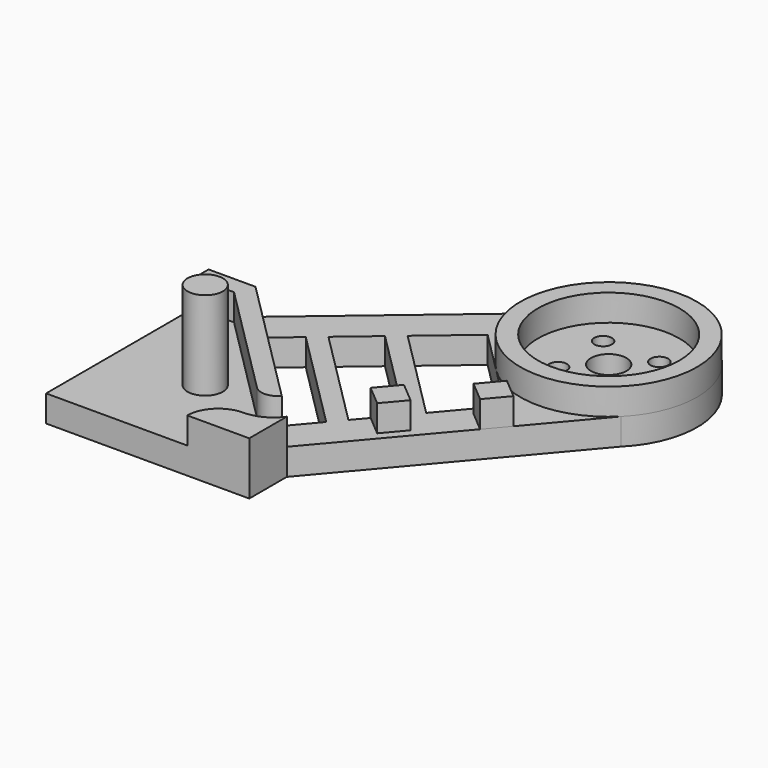
from build123d import *

# Parameters (mm, degrees)
PAD_DEPTH       = 3
SKETCH001_R     = 2
SKETCH001_R_2   = 1
POCKET_DEPTH    = 3
POCKET001_DEPTH = 3
SKETCH003_R     = 10
SKETCH003_R_2   = 8
PAD001_DEPTH    = 3
PAD002_DEPTH    = 3
SKETCH005_R     = 2
PAD003_DEPTH    = 10
PAD004_DEPTH    = 3


with BuildPart() as part:
    # Sketch → Pad (new body)
    with BuildSketch(Plane.XY):
        with BuildLine():
            ThreePointArc((42.426407, 28.284271), (42.426407, 42.426407), (28.284271, 42.426407))
            Line((28.284271, 42.426407), (5.303301, 22.98097))
            Line((5.303301, 22.98097), (0, 22.98097))
            Line((0, 22.98097), (0, 0))
            Line((0, 0), (22.98097, 0))
            Line((22.98097, 0), (22.98097, 5.303301))
            Line((22.98097, 5.303301), (42.426407, 28.284271))
        make_face()
    extrude(amount=PAD_DEPTH)

    # Sketch001 → Pocket (cut)
    with BuildSketch(Plane.XY.offset(3)):
        with Locations((35.355339, 35.355339)):
            Circle(SKETCH001_R)
        with Locations((38.53732, 38.53732)):
            Circle(SKETCH001_R_2)
        with Locations((32.173359, 38.53732)):
            Circle(SKETCH001_R_2)
        with Locations((32.173359, 32.173359)):
            Circle(SKETCH001_R_2)
        with Locations((38.53732, 32.173359)):
            Circle(SKETCH001_R_2)
    extrude(amount=-POCKET_DEPTH, mode=Mode.SUBTRACT)

    # Sketch002 → Pocket001 (cut)
    with BuildSketch(Plane.XY.offset(3)):
        Polygon((23.452375, 33.116168), (33.116168, 23.452375), (28.549792, 18.05575), (18.05575, 28.549792), align=None)
        Polygon((8.131728, 20.152543), (20.152543, 8.131728), (22.736312, 11.185273), (11.185273, 22.736312), align=None)
        Polygon((12.712046, 24.028197), (24.028197, 12.712046), (27.257908, 16.528977), (16.528977, 27.257908), align=None)
    extrude(amount=-POCKET001_DEPTH, mode=Mode.SUBTRACT)

    # Sketch003 → Pad001 (new body)
    with BuildSketch(Plane.XY.offset(3)):
        with Locations((35.355339, 35.355339)):
            Circle(SKETCH003_R)
        with Locations((35.355339, 35.355339)):
            Circle(SKETCH003_R_2, mode=Mode.SUBTRACT)
    extrude(amount=PAD001_DEPTH)

    # Sketch004 → Pad002 (new body)
    with BuildSketch(Plane.XY.offset(3)):
        Polygon((36.159165, 20.877531), (33.869006, 22.815358), (31.931179, 20.525199), (34.221338, 18.587372), align=None)
        Polygon((25.320081, 14.238818), (27.61024, 12.300992), (29.548067, 14.59115), (27.257908, 16.528977), align=None)
    extrude(amount=PAD002_DEPTH)

    # Sketch005 → Pad003 (new body)
    with BuildSketch(Plane.XY.offset(3)):
        with Locations((10, 10)):
            Circle(SKETCH005_R)
    extrude(amount=PAD003_DEPTH)

    # Sketch006 → Pad004 (new body)
    with BuildSketch(Plane.XY.offset(3)):
        with BuildLine():
            Line((5.303301, 22.98097), (0, 22.98097))
            Line((0, 22.98097), (0, 20.98097))
            Line((0, 20.98097), (4.474874, 20.98097))
            Line((4.474874, 20.98097), (17.437065, 8.018779))
            ThreePointArc((17.437065, 8.018779), (18.819584, 7.479505), (20.152543, 8.131728))
            Line((5.303301, 22.98097), (20.152543, 8.131728))
        make_face()
        with BuildLine():
            Line((22.98097, 5.303301), (22.98097, 0))
            Line((22.98097, 0), (20.98097, 0))
            Line((20.98097, 0), (17.98097, 0))
            Line((17.98097, 0), (15.98097, 0))
            ThreePointArc((19.48097, 3.5), (17.006097, 2.474874), (15.98097, 0))
            ThreePointArc((19.48097, 3.5), (21.449594, 3.977328), (22.98097, 5.303301))
        make_face()
    extrude(amount=PAD004_DEPTH)


solid = part.part
